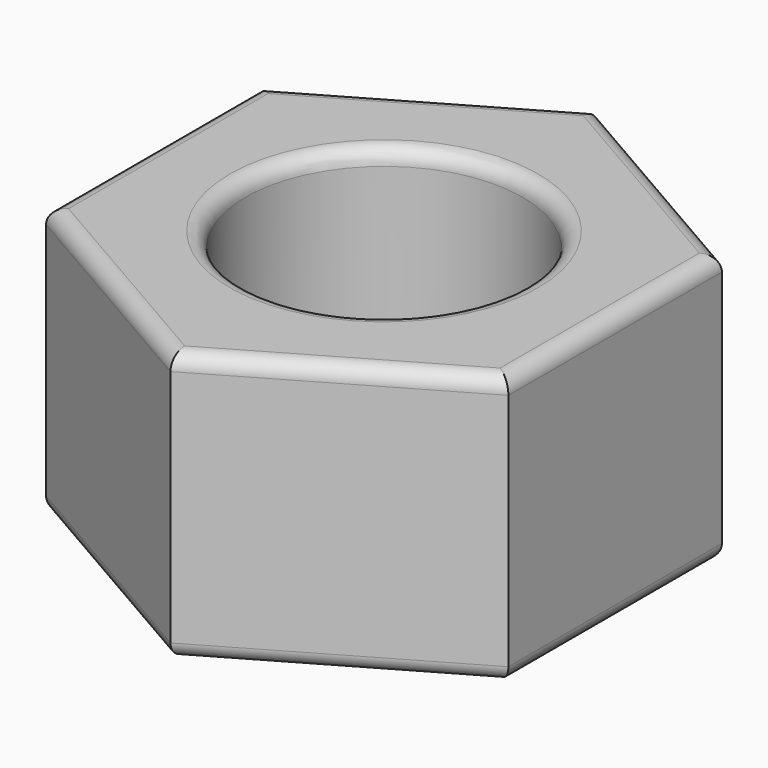
from build123d import *

# Parameters (mm, degrees)
F0_R     = 5.715
F1_DEPTH = 11.1125
F2_R     = 0.635


with BuildPart() as f1:
    # F0 (on Top) → F1 (new body)
    with BuildSketch(Plane.XY):
        Polygon((9.524726, -5.499103), (9.524726, 5.499103), (0, 10.998206), (-9.524726, 5.499103), (-9.524726, -5.499103), (0, -10.998206), align=None)
        Circle(F0_R, mode=Mode.SUBTRACT)
    extrude(amount=F1_DEPTH)

    # F2
    f2_edges = [f1.edges().sort_by_distance(p)[0] for p in [
        (-5.715, 0, 11.1125),
        (-5.715, 0, 0),
        (-4.762363, 8.248655, 11.1125),
        (4.762363, 8.248655, 11.1125),
        (-9.524726, 0, 11.1125),
        (-4.762363, -8.248655, 11.1125),
        (4.762363, -8.248655, 11.1125),
        (9.524726, 0, 11.1125),
        (4.762363, 8.248655, 0),
        (-4.762363, 8.248655, 0),
        (-9.524726, 0, 0),
        (4.762363, -8.248655, 0),
        (-4.762363, -8.248655, 0),
        (9.524726, 0, 0),
    ]]
    fillet(f2_edges, radius=F2_R)


solid = f1.part
